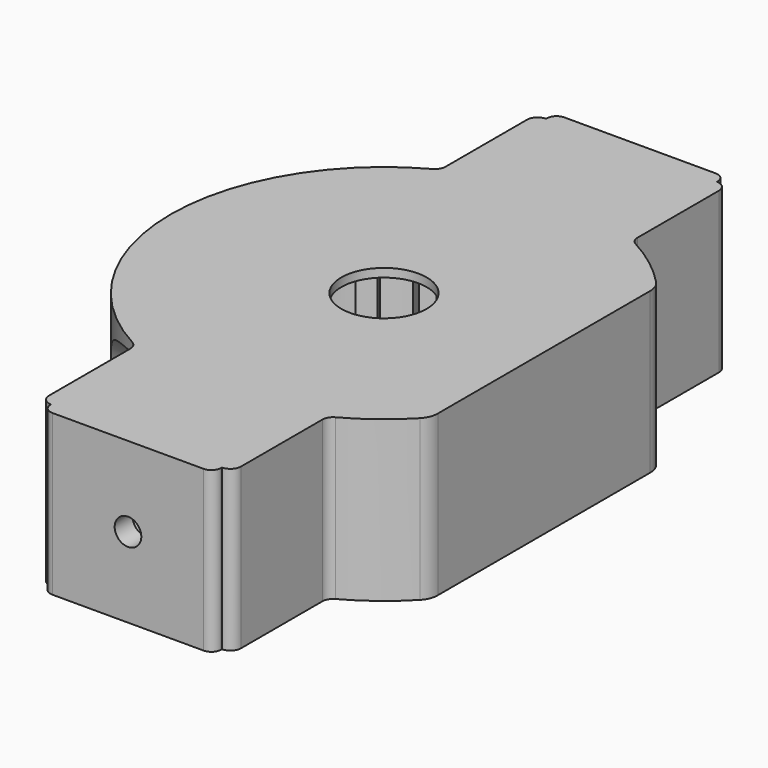
from build123d import *

# Parameters (mm, degrees)
CYLINDER060_R     = 4
CYLINDER060_DEPTH = 10
BOX018_W          = 6.3
BOX018_H          = 1.8
BOX018_DEPTH      = 14.2
ARRAY003_COUNT    = 16
CYLINDER056_R     = 10.8
CYLINDER056_DEPTH = 14.2
BOX015_W          = 14
BOX015_H          = 54
BOX015_DEPTH      = 15
BOX016_W          = 40
BOX016_H          = 40
BOX016_DEPTH      = 10
PRISM008_DEPTH    = 2.4
PRISM001_DEPTH    = 2.4
CYLINDER012_R     = 1.25
CYLINDER012_DEPTH = 50
CYLINDER011_R     = 1.25
CYLINDER011_DEPTH = 50
CYLINDER007_R     = 6.75
CYLINDER007_DEPTH = 50
CYLINDER008_R     = 6.75
CYLINDER008_DEPTH = 50
BOX013_W          = 18
BOX013_H          = 18
BOX013_DEPTH      = 15
BOX003_W          = 18
BOX003_H          = 18
BOX003_DEPTH      = 15
CYLINDER004_R     = 11.2
CYLINDER004_DEPTH = 23
CYLINDER002_R     = 0.9
CYLINDER002_DEPTH = 19.75
ARRAY002_COUNT    = 10
CYLINDER006_R     = 10.5
CYLINDER006_DEPTH = 32
CYLINDER005_R     = 20
CYLINDER005_DEPTH = 15
FILLET003_R       = 1
CYLINDER051_R     = 1.25
CYLINDER051_DEPTH = 50
BOX011_W          = 16
BOX011_H          = 1
BOX011_DEPTH      = 15
CYLINDER052_R     = 1.25
CYLINDER052_DEPTH = 50
BOX012_W          = 16
BOX012_H          = 1
BOX012_DEPTH      = 15
FILLET010_R       = 0.9
CYLINDER053_R     = 10.5
CYLINDER053_DEPTH = 15
PAD_DEPTH         = 50
BOX014_W          = 10
BOX014_H          = 54
BOX014_DEPTH      = 15
FILLET011_R       = 2


with BuildPart() as cylinder055:
    # Cylinder060 → Cylinder060 (new body)
    with BuildSketch(Plane.XY.offset(21.7)):
        Circle(CYLINDER060_R)
    extrude(amount=CYLINDER060_DEPTH)


with BuildPart() as array003:
    # Box018 → Box018 (new body)
    with BuildSketch(Plane(origin=(6, -0.9, 15), x_dir=(1, 0, 0), z_dir=(0, 0, 1))):
        with Locations((3.15, 0.9)):
            Rectangle(BOX018_W, BOX018_H)
    extrude(amount=BOX018_DEPTH)

    # Array003: Array003 ×16 about axis
    array003_axis = Axis((0, 0, 0), (0, 0, 1))


with BuildPart() as array003_1:
    add(array003.part)
    for i in range(1, ARRAY003_COUNT):
        add(array003.part.rotate(array003_axis, i * 360 / ARRAY003_COUNT))


with BuildPart() as fusion020:
    # Cylinder056 → Cylinder056 (new body)
    with BuildSketch(Plane.XY.offset(15)):
        Circle(CYLINDER056_R)
    extrude(amount=CYLINDER056_DEPTH)

    # Fusion020: union Array003
    add(array003_1.part)


with BuildPart() as cube015:
    # Box015 → Box015 (new body)
    with BuildSketch(Plane(origin=(15, -27, 15), x_dir=(1, 0, 0), z_dir=(0, 0, 1))):
        with Locations((7, 27)):
            Rectangle(BOX015_W, BOX015_H)
    extrude(amount=BOX015_DEPTH)


with BuildPart() as cube016:
    # Box016 → Box016 (new body)
    with BuildSketch(Plane(origin=(-20, -20, 5), x_dir=(1, 0, 0), z_dir=(0, 0, 1))):
        with Locations((20, 20)):
            Rectangle(BOX016_W, BOX016_H)
    extrude(amount=BOX016_DEPTH)


with BuildPart() as prism008:
    # Prism008 → Prism008 (new body)
    with BuildSketch(Plane(origin=(0, 28, 22.5), x_dir=(1, 0, 0), z_dir=(0, -1, 0))):
        Polygon((3.15, 0), (1.575, 2.72798), (-1.575, 2.72798), (-3.15, 0), (-1.575, -2.72798), (1.575, -2.72798), align=None)
    extrude(amount=PRISM008_DEPTH)


with BuildPart() as prism001:
    # Prism001 → Prism001 (new body)
    with BuildSketch(Plane(origin=(0, -25.5, 22.5), x_dir=(1, 0, 0), z_dir=(0, -1, 0))):
        Polygon((3.15, 0), (1.575, 2.72798), (-1.575, 2.72798), (-3.15, 0), (-1.575, -2.72798), (1.575, -2.72798), align=None)
    extrude(amount=PRISM001_DEPTH)


with BuildPart() as cylinder011:
    # Cylinder012 → Cylinder012 (new body)
    with BuildSketch(Plane(origin=(0, 69, 22.5), x_dir=(1, 0, 0), z_dir=(0, -1, 0))):
        Circle(CYLINDER012_R)
    extrude(amount=CYLINDER012_DEPTH)


with BuildPart() as cylinder010:
    # Cylinder011 → Cylinder011 (new body)
    with BuildSketch(Plane(origin=(0, -16, 22.5), x_dir=(1, 0, 0), z_dir=(0, -1, 0))):
        Circle(CYLINDER011_R)
    extrude(amount=CYLINDER011_DEPTH)


with BuildPart() as cylinder007:
    # Cylinder007 → Cylinder007 (new body)
    with BuildSketch(Plane(origin=(-24, 19, 22.5), x_dir=(0, 0, -1), z_dir=(1, 0, 0))):
        Circle(CYLINDER007_R)
    extrude(amount=CYLINDER007_DEPTH)


with BuildPart() as cylinder008:
    # Cylinder008 → Cylinder008 (new body)
    with BuildSketch(Plane(origin=(-24, -19, 22.5), x_dir=(0, 0, -1), z_dir=(1, 0, 0))):
        Circle(CYLINDER008_R)
    extrude(amount=CYLINDER008_DEPTH)


with BuildPart() as cube013:
    # Box013 → Box013 (new body)
    with BuildSketch(Plane(origin=(-9, -29, 15), x_dir=(1, 0, 0), z_dir=(0, 0, 1))):
        with Locations((9, 9)):
            Rectangle(BOX013_W, BOX013_H)
    extrude(amount=BOX013_DEPTH)


with BuildPart() as cube003:
    # Box003 → Box003 (new body)
    with BuildSketch(Plane(origin=(-9, 11, 15), x_dir=(1, 0, 0), z_dir=(0, 0, 1))):
        with Locations((9, 9)):
            Rectangle(BOX003_W, BOX003_H)
    extrude(amount=BOX003_DEPTH)


with BuildPart() as cylinder004:
    # Cylinder004 → Cylinder004 (new body)
    with BuildSketch(Plane.XY):
        Circle(CYLINDER004_R)
    extrude(amount=CYLINDER004_DEPTH)


with BuildPart() as obj1:
    # Cylinder002 → Cylinder002 (new body)
    with BuildSketch(Plane(origin=(0, 0, 15), x_dir=(0, 0, -1), z_dir=(1, 0, 0))):
        Circle(CYLINDER002_R)
    extrude(amount=CYLINDER002_DEPTH)

    # Array002: obj1 ×10 about axis
    array002_axis = Axis((0, 0, 0), (0, 0, 1))


with BuildPart() as obj1_1:
    add(obj1.part)
    for i in range(1, ARRAY002_COUNT):
        add(obj1.part.rotate(array002_axis, i * 360 / ARRAY002_COUNT))

    # Cut002: cut Cylinder004
    add(cylinder004.part, mode=Mode.SUBTRACT)


with BuildPart() as cylinder006:
    # Cylinder006 → Cylinder006 (new body)
    with BuildSketch(Plane.XY):
        Circle(CYLINDER006_R)
    extrude(amount=CYLINDER006_DEPTH)


with BuildPart() as obj2:
    # Cylinder005 → Cylinder005 (new body)
    with BuildSketch(Plane.XY.offset(15)):
        Circle(CYLINDER005_R)
    extrude(amount=CYLINDER005_DEPTH)

    # Cut004: cut Cylinder006
    add(cylinder006.part, mode=Mode.SUBTRACT)

    # Fusion001: union obj1
    add(obj1_1.part)

    # Fusion002: union Cube013, Cube003
    add(cube013.part)
    add(cube003.part)

    # Cut005: cut Cylinder008
    add(cylinder008.part, mode=Mode.SUBTRACT)

    # Cut006: cut Cylinder007
    add(cylinder007.part, mode=Mode.SUBTRACT)

    # Fillet003
    fillet003_edges = [obj2.edges().sort_by_distance(p)[0] for p in [
        (-9, -17.860571, 29.576567),
        (-9, -17.860571, 15.423433),
        (-9, -29, 22.5),
        (-9, 17.860571, 15.423433),
        (-9, 17.860571, 29.576567),
        (9, -29, 22.5),
        (9, -17.860571, 29.576567),
        (9, -17.860571, 15.423433),
        (9, 17.860571, 29.576567),
        (9, 17.860571, 15.423433),
        (9, 29, 22.5),
        (-9, 29, 22.5),
    ]]
    fillet(fillet003_edges, radius=FILLET003_R)

    # Cut008: cut Cylinder010
    add(cylinder010.part, mode=Mode.SUBTRACT)

    # Cut009: cut Cylinder011
    add(cylinder011.part, mode=Mode.SUBTRACT)

    # Cut035: cut Prism001
    add(prism001.part, mode=Mode.SUBTRACT)

    # Cut036: cut Prism008
    add(prism008.part, mode=Mode.SUBTRACT)


with BuildPart() as cylinder049:
    # Cylinder051 → Cylinder051 (new body)
    with BuildSketch(Plane(origin=(0, 69, 22.5), x_dir=(1, 0, 0), z_dir=(0, -1, 0))):
        Circle(CYLINDER051_R)
    extrude(amount=CYLINDER051_DEPTH)


with BuildPart() as cut037:
    # Box011 → Box011 (new body)
    with BuildSketch(Plane(origin=(-8, 29, 15), x_dir=(1, 0, 0), z_dir=(0, 0, 1))):
        with Locations((8, 0.5)):
            Rectangle(BOX011_W, BOX011_H)
    extrude(amount=BOX011_DEPTH)

    # Cut037: cut Cylinder049
    add(cylinder049.part, mode=Mode.SUBTRACT)


with BuildPart() as cylinder021:
    # Cylinder052 → Cylinder052 (new body)
    with BuildSketch(Plane(origin=(0, 69, 22.5), x_dir=(1, 0, 0), z_dir=(0, -1, 0))):
        Circle(CYLINDER052_R)
    extrude(amount=CYLINDER052_DEPTH)


with BuildPart() as obj3:
    # Box012 → Box012 (new body)
    with BuildSketch(Plane(origin=(-8, 29, 15), x_dir=(1, 0, 0), z_dir=(0, 0, 1))):
        with Locations((8, 0.5)):
            Rectangle(BOX012_W, BOX012_H)
    extrude(amount=BOX012_DEPTH)

    # Cut038: cut Cylinder021
    add(cylinder021.part, mode=Mode.SUBTRACT)


with BuildPart() as obj3_1:
    # Cut038 placement: moved
    add(obj3.part.moved(Location((0, -59, 0))))

    # Fusion017: union obj2, Cut037
    add(obj2.part)
    add(cut037.part)

    # Fillet010
    fillet010_edges = [obj3_1.edges().sort_by_distance(p)[0] for p in [
        (-8, -30, 22.5),
        (8, -30, 22.5),
        (-8, 30, 22.5),
        (8, 30, 22.5),
    ]]
    fillet(fillet010_edges, radius=FILLET010_R)


with BuildPart() as cylinder050:
    # Cylinder053 → Cylinder053 (new body)
    with BuildSketch(Plane.XY.offset(15)):
        Circle(CYLINDER053_R)
    extrude(amount=CYLINDER053_DEPTH)


with BuildPart() as body:
    # CopySketch → Pad (new body)
    with BuildSketch(Plane(origin=(0, 0, 15), x_dir=(1, 0, 0), z_dir=(0, 0, -1))):
        with BuildLine():
            Line((9, 28), (9, 18.466185))
            ThreePointArc((9, 18.466185), (9.140875, 17.954419), (9.52381, 17.586843))
            ThreePointArc((9.52381, -17.586843), (20, 0), (9.52381, 17.586843))
            ThreePointArc((9.52381, -17.586843), (9.140875, -17.954419), (9, -18.466185))
            Line((9, -18.466185), (9, -28))
            Line((27.474319, -28), (9, -28))
            Line((27.474319, 28), (27.474319, -28))
            Line((9, 28), (27.474319, 28))
        make_face()
    extrude(amount=PAD_DEPTH)


with BuildPart() as body_1:
    # Body placement: moved
    add(body.part.moved(Location((0, 0, 25))))


with BuildPart() as obj4:
    # Box014 → Box014 (new body)
    with BuildSketch(Plane(origin=(7, -27, 15), x_dir=(1, 0, 0), z_dir=(0, 0, 1))):
        with Locations((5, 27)):
            Rectangle(BOX014_W, BOX014_H)
    extrude(amount=BOX014_DEPTH)

    # Cut039: cut Body
    add(body_1.part, mode=Mode.SUBTRACT)

    # Fusion018: union Cylinder050
    add(cylinder050.part)

    # Fusion019: union obj3
    add(obj3_1.part)

    # Cut040: cut Cube016
    add(cube016.part, mode=Mode.SUBTRACT)

    # Cut041: cut Cube015
    add(cube015.part, mode=Mode.SUBTRACT)

    # Fillet011
    fillet011_edges = [obj4.edges().sort_by_distance(p)[0] for p in [
        (15, 13.228757, 28.000375),
        (15, 13.228757, 22.5),
        (15, 13.228757, 16.999625),
        (15, -13.228757, 16.999625),
        (15, -13.228757, 22.5),
        (15, -13.228757, 28.000375),
    ]]
    fillet(fillet011_edges, radius=FILLET011_R)

    # Cut042: cut Fusion020
    add(fusion020.part, mode=Mode.SUBTRACT)

    # Cut045: cut Cylinder055
    add(cylinder055.part, mode=Mode.SUBTRACT)


solid = obj4.part
